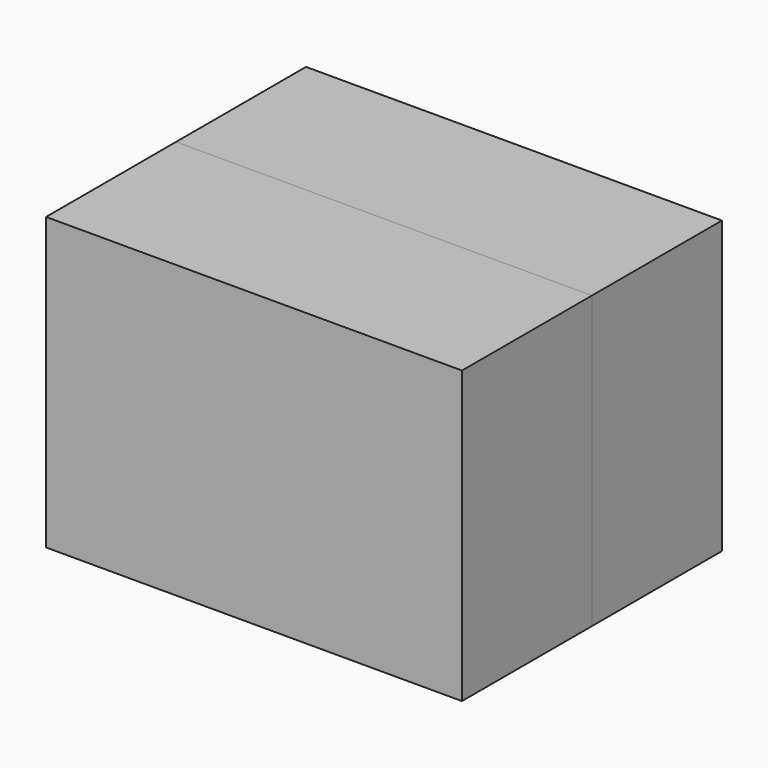
from build123d import *

# Parameters (mm, degrees)
F0_W      = 64.007706
F0_H      = 44.786731
F1_DEPTH  = 25
F1_FACE_W = 64.007706
F1_FACE_H = 44.786732
F2_DEPTH  = 25


with BuildPart() as f1:
    # F0 (on Front) → F1 (new body)
    with BuildSketch(Plane.XZ):
        with Locations((-38.441945, 18.754443)):
            Rectangle(F0_W, F0_H)
    extrude(amount=F1_DEPTH)


with BuildPart() as f2:
    # F1_face (on face) → F2 (new body)
    with BuildSketch(Plane(origin=(-38.441945, 0, 18.754444), x_dir=(1, 0, 0), z_dir=(0, 1, 0))):
        Rectangle(F1_FACE_W, F1_FACE_H)
    extrude(amount=F2_DEPTH)


solid = Compound([f1.part, f2.part])
